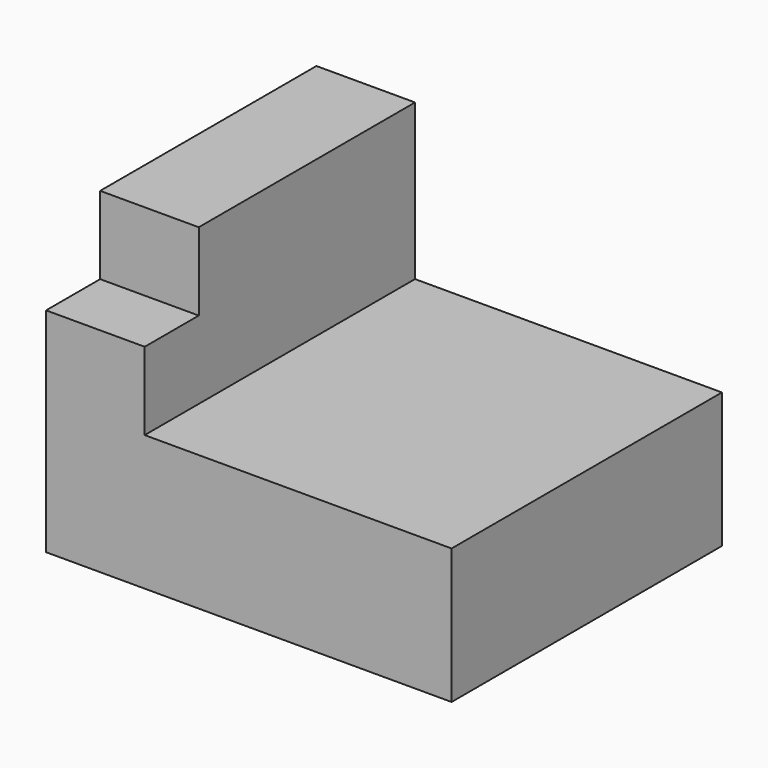
from build123d import *

# Parameters (mm, degrees)
F0_W     = 76.2
F0_H     = 63.5
F1_DEPTH = 25.4
F2_W     = 18.529646
F2_H     = 29.221089
F3_DEPTH = 63.5
F4_W     = 18.529646
F4_H     = 14.610544
F5_DEPTH = 12.7


with BuildPart() as f1:
    # F0 (on Top) → F1 (new body)
    with BuildSketch(Plane.XY):
        with Locations((1.98446, 2.628666)):
            Rectangle(F0_W, F0_H)
    extrude(amount=F1_DEPTH)

    # F2 (on face) → F3 (join)
    with BuildSketch(Plane.XZ.offset(29.121334)):
        with Locations((-26.850717, 40.010544)):
            Rectangle(F2_W, F2_H)
    extrude(amount=-F3_DEPTH)

    # F4 (on face) → F5 (cut)
    with BuildSketch(Plane.XZ.offset(29.121334)):
        with Locations((-26.850717, 47.315817)):
            Rectangle(F4_W, F4_H)
    extrude(amount=-F5_DEPTH, mode=Mode.SUBTRACT)


solid = f1.part
